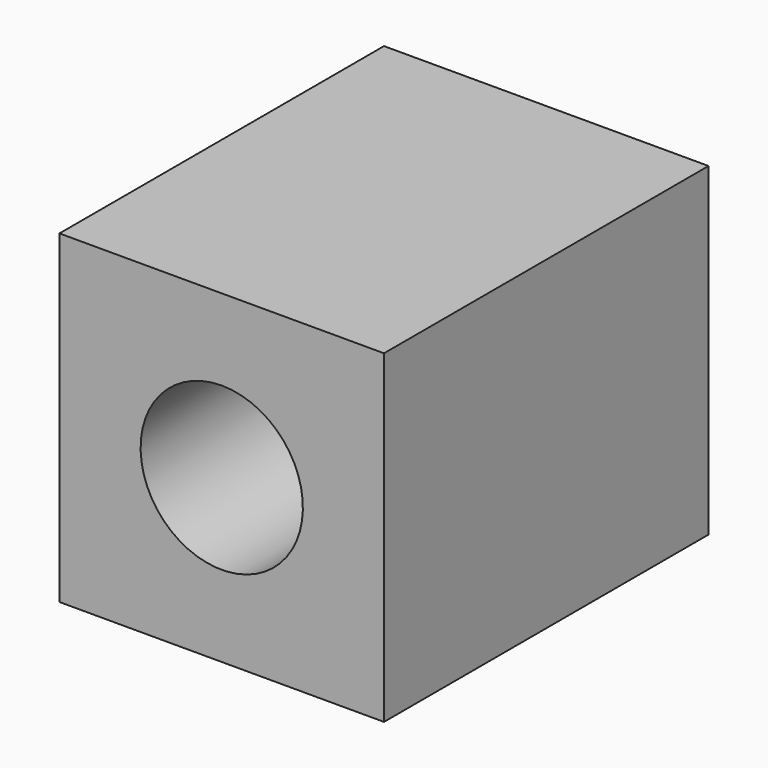
from build123d import *

# Parameters (mm, degrees)
F0_W     = 40
F0_H     = 40
F1_DEPTH = 50
F2_W     = 50
F2_H     = 10


with BuildPart() as f1:
    # F0 (on Front) → F1 (new body)
    with BuildSketch(Plane.XZ):
        Rectangle(F0_W, F0_H)
    extrude(amount=F1_DEPTH)

    # F2 (on Right) → F3 (revolve, cut)
    with BuildSketch(Plane.YZ):
        with Locations((-25, 5)):
            Rectangle(F2_W, F2_H)
    revolve(axis=Axis((0, -21.373369, 0), (0, 1, 0)), mode=Mode.SUBTRACT)


solid = f1.part
